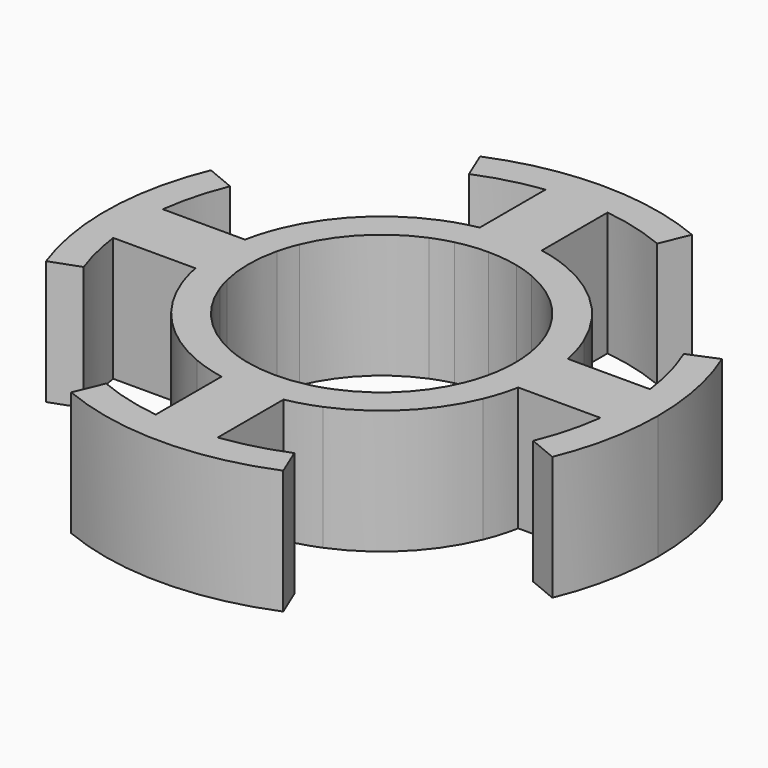
from build123d import *

# Parameters (mm, degrees)
F1_DEPTH = 2


with BuildPart() as f1:
    # F0 (on Top) → F1 (new body)
    with BuildSketch(Plane.XY):
        with BuildLine():
            ThreePointArc((0.5, 3.9283075236), (1.0177847027, 3.8269719491), (1.5175023316, 3.6577023763))
            Line((1.5175023316, 3.6577023763), (1.7091061614, 4.1195334844))
            ThreePointArc((1.7091061614, 4.1195334844), (0.871343979, 4.3740552889), (0, 4.46))
            Line((0, 4.46), (0, 3.96))
            ThreePointArc((0, 3.96), (0.2505017031, 3.9520689388), (0.5, 3.9283075236))
        make_face()
        with BuildLine():
            ThreePointArc((-0.5, 3.9283075236), (-0.2505017031, 3.9520689388), (0, 3.96))
            Line((0, 3.96), (0, 4.46))
            ThreePointArc((0, 4.46), (-0.871343979, 4.3740552889), (-1.7091061614, 4.1195334844))
            Line((-1.7091061614, 4.1195334844), (-1.5175023316, 3.6577023763))
            ThreePointArc((-1.5175023316, 3.6577023763), (-1.0177847027, 3.8269719491), (-0.5, 3.9283075236))
        make_face()
        with BuildLine():
            ThreePointArc((-0.5, 2.6024027359), (-0.2511301951, 2.6380738475), (0, 2.65))
            Line((0, 2.65), (0, 3.96))
            ThreePointArc((0, 3.96), (-0.2505017031, 3.9520689388), (-0.5, 3.9283075236))
            Line((-0.5, 3.9283075236), (-0.5, 2.6024027359))
        make_face()
        with BuildLine():
            ThreePointArc((0, 2.65), (0.2511301951, 2.6380738475), (0.5, 2.6024027359))
            Line((0.5, 2.6024027359), (0.5, 3.9283075236))
            ThreePointArc((0.5, 3.9283075236), (0.2505017031, 3.9520689388), (0, 3.96))
            Line((0, 3.96), (0, 2.65))
        make_face()
        with BuildLine():
            ThreePointArc((0, 2.15), (0.2517314161, 2.1352122363), (0.5, 2.0910523666))
            Line((0.5, 2.0910523666), (0.5, 2.6024027359))
            ThreePointArc((0.5, 2.6024027359), (0.2511301951, 2.6380738475), (0, 2.65))
            Line((0, 2.65), (0, 2.15))
        make_face()
        with BuildLine():
            ThreePointArc((-0.5, 2.0910523666), (-0.2517314161, 2.1352122363), (0, 2.15))
            Line((0, 2.15), (0, 2.65))
            ThreePointArc((0, 2.65), (-0.2511301951, 2.6380738475), (-0.5, 2.6024027359))
            Line((-0.5, 2.6024027359), (-0.5, 2.0910523666))
        make_face()
        with BuildLine():
            ThreePointArc((-0.8238964679, 1.9858737649), (-0.6640339592, 2.0448860362), (-0.5, 2.0910523666))
            Line((-0.5, 2.0910523666), (-0.5, 2.6024027359))
            ThreePointArc((-0.5, 2.6024027359), (-0.7616876954, 2.5381749063), (-1.0155002977, 2.447704873))
            Line((-1.0155002977, 2.447704873), (-0.8238964679, 1.9858737649))
        make_face()
        with BuildLine():
            ThreePointArc((0.5, 2.0910523666), (0.6640339592, 2.0448860362), (0.8238964679, 1.9858737649))
            Line((0.8238964679, 1.9858737649), (1.0155002977, 2.447704873))
            ThreePointArc((1.0155002977, 2.447704873), (0.7616876954, 2.5381749063), (0.5, 2.6024027359))
            Line((0.5, 2.6024027359), (0.5, 2.0910523666))
        make_face()
        with BuildLine():
            ThreePointArc((0.8238964679, 1.9858737649), (1.5202795796, 1.5202795796), (1.9858737649, 0.8238964679))
            Line((1.9858737649, 0.8238964679), (2.447704873, 1.0155002977))
            ThreePointArc((2.447704873, 1.0155002977), (1.8738329701, 1.8738329701), (1.0155002977, 2.447704873))
            Line((1.0155002977, 2.447704873), (0.8238964679, 1.9858737649))
        make_face()
        with BuildLine():
            ThreePointArc((-1.9858737649, 0.8238964679), (-1.5202795796, 1.5202795796), (-0.8238964679, 1.9858737649))
            Line((-0.8238964679, 1.9858737649), (-1.0155002977, 2.447704873))
            ThreePointArc((-1.0155002977, 2.447704873), (-1.8738329701, 1.8738329701), (-2.447704873, 1.0155002977))
            Line((-2.447704873, 1.0155002977), (-1.9858737649, 0.8238964679))
        make_face()
        with BuildLine():
            ThreePointArc((-2.0910523666, 0.5), (-2.0448860362, 0.6640339592), (-1.9858737649, 0.8238964679))
            Line((-1.9858737649, 0.8238964679), (-2.447704873, 1.0155002977))
            ThreePointArc((-2.447704873, 1.0155002977), (-2.5381749063, 0.7616876954), (-2.6024027359, 0.5))
            Line((-2.6024027359, 0.5), (-2.0910523666, 0.5))
        make_face()
        with BuildLine():
            Line((-2.6024027359, -0.5), (-2.0910523666, -0.5))
            ThreePointArc((-2.0910523666, -0.5), (-2.15, 0), (-2.0910523666, 0.5))
            Line((-2.0910523666, 0.5), (-2.6024027359, 0.5))
            ThreePointArc((-2.6024027359, 0.5), (-2.65, 0), (-2.6024027359, -0.5))
        make_face()
        with BuildLine():
            Line((-2.4906162885, -0.9051687706), (-2.0206886869, -0.7343822101))
            ThreePointArc((-2.0206886869, -0.7343822101), (-2.0592079492, -0.6181930297), (-2.0910523666, -0.5))
            Line((-2.0910523666, -0.5), (-2.6024027359, -0.5))
            ThreePointArc((-2.6024027359, -0.5), (-2.5545549767, -0.7048041366), (-2.4906162885, -0.9051687706))
        make_face()
        with BuildLine():
            Line((-1.0155002977, -2.447704873), (-0.8238964679, -1.9858737649))
            ThreePointArc((-0.8238964679, -1.9858737649), (-1.553857765, -1.4859428139), (-2.0206886869, -0.7343822101))
            Line((-2.0206886869, -0.7343822101), (-2.4906162885, -0.9051687706))
            ThreePointArc((-2.4906162885, -0.9051687706), (-1.9152200359, -1.8315109102), (-1.0155002977, -2.447704873))
        make_face()
        with BuildLine():
            Line((-0.5, -2.6024027359), (-0.5, -2.0910523666))
            ThreePointArc((-0.5, -2.0910523666), (-0.6640339592, -2.0448860362), (-0.8238964679, -1.9858737649))
            Line((-0.8238964679, -1.9858737649), (-1.0155002977, -2.447704873))
            ThreePointArc((-1.0155002977, -2.447704873), (-0.7616876954, -2.5381749063), (-0.5, -2.6024027359))
        make_face()
        with BuildLine():
            Line((0.5, -2.6024027359), (0.5, -2.0910523666))
            ThreePointArc((0.5, -2.0910523666), (0, -2.15), (-0.5, -2.0910523666))
            Line((-0.5, -2.0910523666), (-0.5, -2.6024027359))
            ThreePointArc((-0.5, -2.6024027359), (0, -2.65), (0.5, -2.6024027359))
        make_face()
        with BuildLine():
            Line((1.0155002977, -2.447704873), (0.8238964679, -1.9858737649))
            ThreePointArc((0.8238964679, -1.9858737649), (0.6640339592, -2.0448860362), (0.5, -2.0910523666))
            Line((0.5, -2.0910523666), (0.5, -2.6024027359))
            ThreePointArc((0.5, -2.6024027359), (0.7616876954, -2.5381749063), (1.0155002977, -2.447704873))
        make_face()
        with BuildLine():
            Line((2.447704873, -1.0155002977), (1.9858737649, -0.8238964679))
            ThreePointArc((1.9858737649, -0.8238964679), (1.5202795796, -1.5202795796), (0.8238964679, -1.9858737649))
            Line((0.8238964679, -1.9858737649), (1.0155002977, -2.447704873))
            ThreePointArc((1.0155002977, -2.447704873), (1.8738329701, -1.8738329701), (2.447704873, -1.0155002977))
        make_face()
        with BuildLine():
            Line((2.6024027359, -0.5), (2.0910523666, -0.5))
            ThreePointArc((2.0910523666, -0.5), (2.0448860362, -0.6640339592), (1.9858737649, -0.8238964679))
            Line((1.9858737649, -0.8238964679), (2.447704873, -1.0155002977))
            ThreePointArc((2.447704873, -1.0155002977), (2.5381749063, -0.7616876954), (2.6024027359, -0.5))
        make_face()
        with BuildLine():
            ThreePointArc((2.0910523666, 0.5), (2.1352122363, 0.2517314161), (2.15, 0))
            ThreePointArc((2.15, 0), (2.1352122363, -0.2517314161), (2.0910523666, -0.5))
            Line((2.0910523666, -0.5), (2.6024027359, -0.5))
            ThreePointArc((2.6024027359, -0.5), (2.6380738475, -0.2511301951), (2.65, 0))
            ThreePointArc((2.65, 0), (2.6380738475, 0.2511301951), (2.6024027359, 0.5))
            Line((2.6024027359, 0.5), (2.0910523666, 0.5))
        make_face()
        with BuildLine():
            ThreePointArc((1.9858737649, 0.8238964679), (2.0448860362, 0.6640339592), (2.0910523666, 0.5))
            Line((2.0910523666, 0.5), (2.6024027359, 0.5))
            ThreePointArc((2.6024027359, 0.5), (2.5381749063, 0.7616876954), (2.447704873, 1.0155002977))
            Line((2.447704873, 1.0155002977), (1.9858737649, 0.8238964679))
        make_face()
        with BuildLine():
            Line((3.9283075236, 0.5), (2.6024027359, 0.5))
            ThreePointArc((2.6024027359, 0.5), (2.6380738475, 0.2511301951), (2.65, 0))
            ThreePointArc((2.65, 0), (2.6380738475, -0.2511301951), (2.6024027359, -0.5))
            Line((2.6024027359, -0.5), (3.9283075236, -0.5))
            ThreePointArc((3.9283075236, -0.5), (3.9520689388, -0.2505017031), (3.96, 0))
            ThreePointArc((3.96, 0), (3.9520689388, 0.2505017031), (3.9283075236, 0.5))
        make_face()
        with BuildLine():
            ThreePointArc((3.6577023763, 1.5175023316), (3.8269719491, 1.0177847027), (3.9283075236, 0.5))
            ThreePointArc((3.9283075236, 0.5), (3.9520689388, 0.2505017031), (3.96, 0))
            ThreePointArc((3.96, 0), (3.9520689388, -0.2505017031), (3.9283075236, -0.5))
            ThreePointArc((3.9283075236, -0.5), (3.8269719491, -1.0177847027), (3.6577023763, -1.5175023316))
            Line((3.6577023763, -1.5175023316), (4.1195334844, -1.7091061614))
            ThreePointArc((4.1195334844, -1.7091061614), (4.3740552889, -0.871343979), (4.46, 0))
            ThreePointArc((4.46, 0), (4.3740552889, 0.871343979), (4.1195334844, 1.7091061614))
            Line((4.1195334844, 1.7091061614), (3.6577023763, 1.5175023316))
        make_face()
        with BuildLine():
            Line((-3.9283075236, -0.5), (-2.6024027359, -0.5))
            ThreePointArc((-2.6024027359, -0.5), (-2.65, 0), (-2.6024027359, 0.5))
            Line((-2.6024027359, 0.5), (-3.9283075236, 0.5))
            ThreePointArc((-3.9283075236, 0.5), (-3.96, 0), (-3.9283075236, -0.5))
        make_face()
        with BuildLine():
            ThreePointArc((-4.1195334844, 1.7091061614), (-4.4588872876, 0.0996200586), (-4.1917542064, -1.5234161196))
            Line((-4.1917542064, -1.5234161196), (-3.7218266048, -1.3526295591))
            ThreePointArc((-3.7218266048, -1.3526295591), (-3.8487507501, -0.9320502472), (-3.9283075236, -0.5))
            ThreePointArc((-3.9283075236, -0.5), (-3.96, 0), (-3.9283075236, 0.5))
            ThreePointArc((-3.9283075236, 0.5), (-3.8269719491, 1.0177847027), (-3.6577023763, 1.5175023316))
            Line((-3.6577023763, 1.5175023316), (-4.1195334844, 1.7091061614))
        make_face()
        with BuildLine():
            Line((0.5, -3.9283075236), (0.5, -2.6024027359))
            ThreePointArc((0.5, -2.6024027359), (0, -2.65), (-0.5, -2.6024027359))
            Line((-0.5, -2.6024027359), (-0.5, -3.9283075236))
            ThreePointArc((-0.5, -3.9283075236), (0, -3.96), (0.5, -3.9283075236))
        make_face()
        with BuildLine():
            Line((1.7091061614, -4.1195334844), (1.5175023316, -3.6577023763))
            ThreePointArc((1.5175023316, -3.6577023763), (1.0177847027, -3.8269719491), (0.5, -3.9283075236))
            ThreePointArc((0.5, -3.9283075236), (0, -3.96), (-0.5, -3.9283075236))
            ThreePointArc((-0.5, -3.9283075236), (-1.0177847027, -3.8269719491), (-1.5175023316, -3.6577023763))
            Line((-1.5175023316, -3.6577023763), (-1.7091061614, -4.1195334844))
            ThreePointArc((-1.7091061614, -4.1195334844), (0, -4.46), (1.7091061614, -4.1195334844))
        make_face()
    extrude(amount=F1_DEPTH)


solid = f1.part
